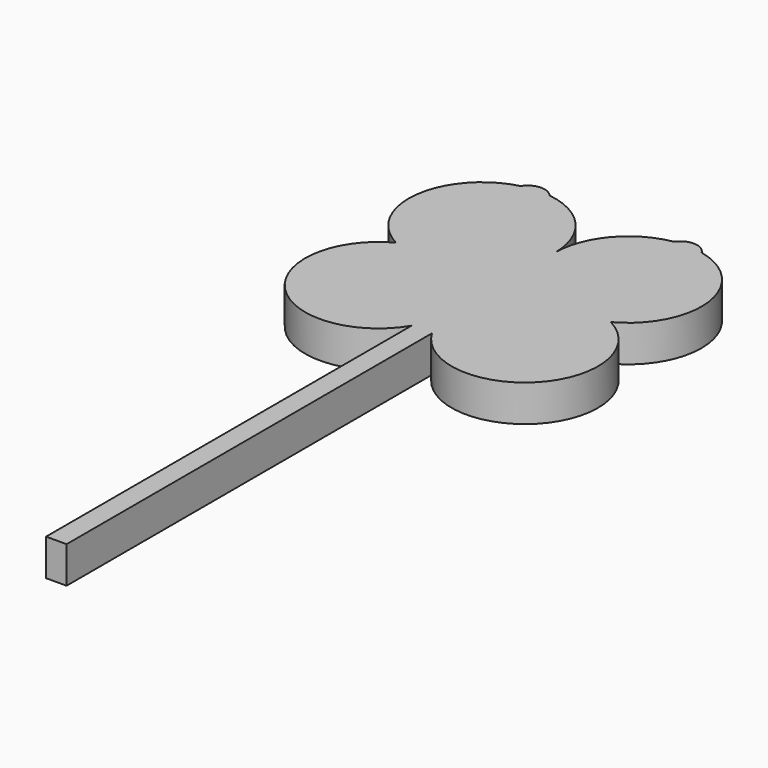
from build123d import *

# Parameters (mm, degrees)
F1_DEPTH = 25
F2_DEPTH = 25


with BuildPart() as f1:
    # F0 (on Top) → F1 (new body)
    with BuildSketch(Plane.XY):
        with BuildLine():
            ThreePointArc((25.7441905011, 94.5091321303), (-4.1346135706, 77.4911290097), (-15.9581672003, 45.2024476719))
            ThreePointArc((-15.9581672003, 45.2024476719), (-28.3942012079, 78.2016667372), (-59.5161055572, 94.7857093817))
            ThreePointArc((-59.5161055572, 94.7857093817), (-69.1375376467, 99.0362543602), (-78.191763881, 93.6827437957))
            ThreePointArc((-78.191763881, 93.6827437957), (-115.5981273519, 51.1919681993), (-89.3719782194, 1.0233411444))
            ThreePointArc((-89.3719782194, 1.0233411444), (-102.1550099365, -77.6490774294), (-22.9581672003, -68.6704670274))
            Line((-22.9581672003, -68.6704670274), (-22.9581672003, -43.1557653831))
            Line((-22.9581672003, -43.1557653831), (-15.9581672003, -43.1557653831))
            Line((-15.9581672003, -43.1557653831), (-8.9581672003, -43.1557653831))
            Line((-8.9581672003, -43.1557653831), (-8.9581672003, -68.6704670274))
            ThreePointArc((-8.9581672003, -68.6704670274), (70.2386755359, -77.6490774294), (57.4556438187, 1.0233411444))
            ThreePointArc((57.4556438187, 1.0233411444), (83.6067922706, 51.7838451407), (45.1150959261, 93.9608607278))
            ThreePointArc((45.1150959261, 93.9608607278), (35.5797605926, 99.5387739728), (25.7441905011, 94.5091321303))
        make_face()
        with BuildLine():
            Line((-22.9581672003, -43.1557653831), (-22.9581672003, -68.6704670274))
            ThreePointArc((-22.9581672003, -68.6704670274), (-17.7399133953, -56.3845219384), (-15.9581672003, -43.1557653831))
            Line((-15.9581672003, -43.1557653831), (-22.9581672003, -43.1557653831))
        make_face()
        with BuildLine():
            ThreePointArc((-15.9581672003, -43.1557653831), (-17.7399133953, -56.3845219384), (-22.9581672003, -68.6704670274))
            Line((-22.9581672003, -68.6704670274), (-22.9581672003, -234.5025837421))
            Line((-22.9581672003, -234.5025837421), (-22.9581672003, -380.6582093239))
            Line((-22.9581672003, -380.6582093239), (-8.9581672003, -380.6582093239))
            Line((-8.9581672003, -380.6582093239), (-8.9581672003, -234.5025837421))
            Line((-8.9581672003, -234.5025837421), (-8.9581672003, -68.6704670274))
            ThreePointArc((-8.9581672003, -68.6704670274), (-14.1764210053, -56.3845219384), (-15.9581672003, -43.1557653831))
        make_face()
        with BuildLine():
            ThreePointArc((-15.9581672003, -43.1557653831), (-14.1764210053, -56.3845219384), (-8.9581672003, -68.6704670274))
            Line((-8.9581672003, -68.6704670274), (-8.9581672003, -43.1557653831))
            Line((-8.9581672003, -43.1557653831), (-15.9581672003, -43.1557653831))
        make_face()
    extrude(amount=F1_DEPTH)

    # F0 (on Top) → F2 (join)
    with BuildSketch(Plane.XY):
        with BuildLine():
            ThreePointArc((25.7441905011, 94.5091321303), (-4.1346135706, 77.4911290097), (-15.9581672003, 45.2024476719))
            ThreePointArc((-15.9581672003, 45.2024476719), (-28.3942012079, 78.2016667372), (-59.5161055572, 94.7857093817))
            ThreePointArc((-59.5161055572, 94.7857093817), (-69.1375376467, 99.0362543602), (-78.191763881, 93.6827437957))
            ThreePointArc((-78.191763881, 93.6827437957), (-115.5981273519, 51.1919681993), (-89.3719782194, 1.0233411444))
            ThreePointArc((-89.3719782194, 1.0233411444), (-102.1550099365, -77.6490774294), (-22.9581672003, -68.6704670274))
            Line((-22.9581672003, -68.6704670274), (-22.9581672003, -43.1557653831))
            Line((-22.9581672003, -43.1557653831), (-15.9581672003, -43.1557653831))
            Line((-15.9581672003, -43.1557653831), (-8.9581672003, -43.1557653831))
            Line((-8.9581672003, -43.1557653831), (-8.9581672003, -68.6704670274))
            ThreePointArc((-8.9581672003, -68.6704670274), (70.2386755359, -77.6490774294), (57.4556438187, 1.0233411444))
            ThreePointArc((57.4556438187, 1.0233411444), (83.6067922706, 51.7838451407), (45.1150959261, 93.9608607278))
            ThreePointArc((45.1150959261, 93.9608607278), (35.5797605926, 99.5387739728), (25.7441905011, 94.5091321303))
        make_face()
        with BuildLine():
            Line((-22.9581672003, -43.1557653831), (-22.9581672003, -68.6704670274))
            ThreePointArc((-22.9581672003, -68.6704670274), (-17.7399133953, -56.3845219384), (-15.9581672003, -43.1557653831))
            Line((-15.9581672003, -43.1557653831), (-22.9581672003, -43.1557653831))
        make_face()
        with BuildLine():
            ThreePointArc((-15.9581672003, -43.1557653831), (-17.7399133953, -56.3845219384), (-22.9581672003, -68.6704670274))
            Line((-22.9581672003, -68.6704670274), (-22.9581672003, -234.5025837421))
            Line((-22.9581672003, -234.5025837421), (-22.9581672003, -380.6582093239))
            Line((-22.9581672003, -380.6582093239), (-8.9581672003, -380.6582093239))
            Line((-8.9581672003, -380.6582093239), (-8.9581672003, -234.5025837421))
            Line((-8.9581672003, -234.5025837421), (-8.9581672003, -68.6704670274))
            ThreePointArc((-8.9581672003, -68.6704670274), (-14.1764210053, -56.3845219384), (-15.9581672003, -43.1557653831))
        make_face()
        with BuildLine():
            ThreePointArc((-15.9581672003, -43.1557653831), (-14.1764210053, -56.3845219384), (-8.9581672003, -68.6704670274))
            Line((-8.9581672003, -68.6704670274), (-8.9581672003, -43.1557653831))
            Line((-8.9581672003, -43.1557653831), (-15.9581672003, -43.1557653831))
        make_face()
    extrude(amount=F2_DEPTH)


solid = f1.part
